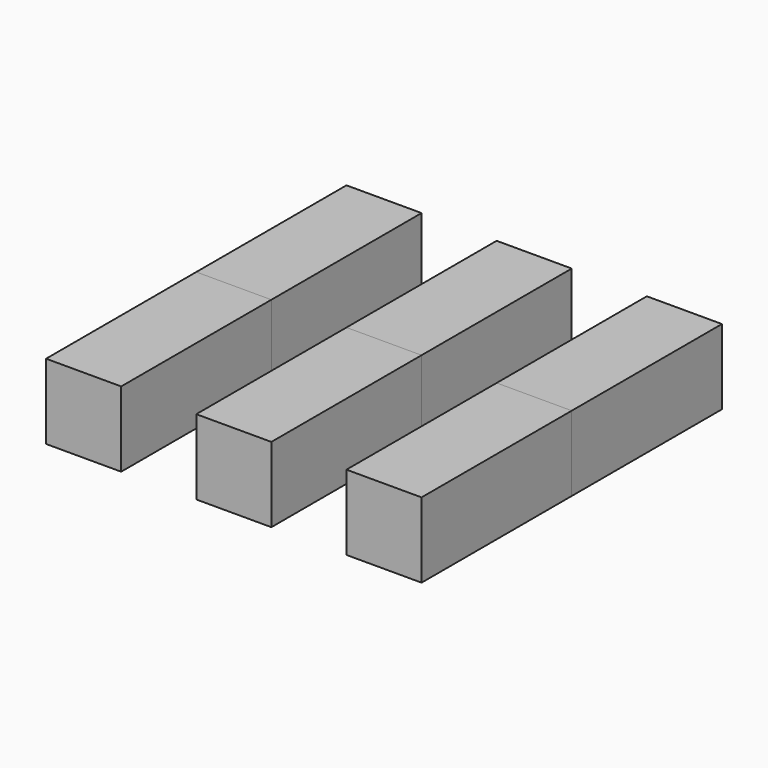
from build123d import *

# Parameters (mm, degrees)
F1_DEPTH  = 63.5
F1_FACE_W = 25.4
F1_FACE_H = 25.4
F2_DEPTH  = 63.5


with BuildPart() as f1:
    # F0 (on Front) → F1 (new body)
    with BuildSketch(Plane.XZ):
        Polygon((12.7, 0), (12.7, 12.7), (-12.7, 12.7), (-12.7, 0), (0, 0), align=None)
        Polygon((12.7, -12.7), (12.7, 0), (0, 0), (-12.7, 0), (-12.7, -12.7), align=None)
        Polygon((-38.1, -12.7), (-38.1, 0), (-38.1, 12.7), (-63.5, 12.7), (-63.5, -12.7), align=None)
        Polygon((38.1, 12.7), (38.1, 0), (38.1, -12.7), (63.5, -12.7), (63.5, 12.7), align=None)
    extrude(amount=F1_DEPTH)


with BuildPart() as f2:
    # F1_face (on face) → F2 (new body)
    with BuildSketch(Plane(origin=(50.8, 0, 0), x_dir=(1, 0, 0), z_dir=(0, 1, 0))):
        Rectangle(F1_FACE_W, F1_FACE_H)
        with Locations((-50.8, 0)):
            Rectangle(F1_FACE_W, F1_FACE_H)
        with Locations((-101.6, 0)):
            Rectangle(F1_FACE_W, F1_FACE_H)
    extrude(amount=F2_DEPTH)


solid = Compound([f1.part, f2.part])
